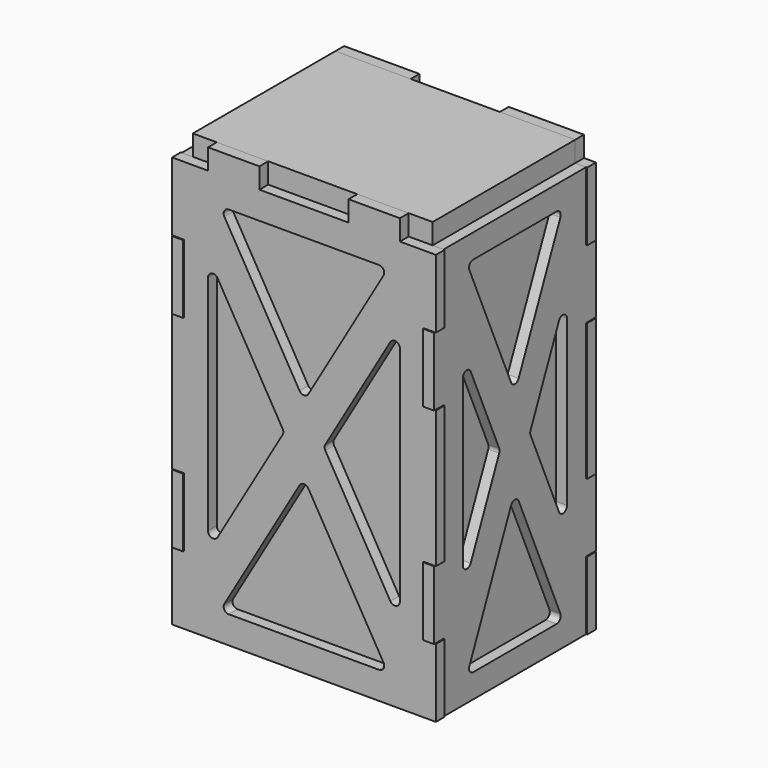
from build123d import *

# Parameters (mm, degrees)
F0_W     = 70
F0_H     = 52
F1_DEPTH = 126
F3_DEPTH = 3.2
F5_DEPTH = 3.2
F7_DEPTH = 3.2
F9_DEPTH = 3.2


with BuildPart() as f1:
    # F0 (on Top) → F1 (new body)
    with BuildSketch(Plane.XY):
        Rectangle(F0_W, F0_H)
    extrude(amount=F1_DEPTH)


with BuildPart() as f3:
    # F2 (on face) → F3 (new body)
    with BuildSketch(Plane.XZ.offset(26)):
        Polygon((28, 120), (28, 126), (13, 126), (13, 120), (-13, 120), (-13, 126), (-28, 126), (-28, 120), (-38.5, 120), (-38.5, 100), (-35, 100), (-35, 80), (-38.5, 80), (-38.5, 40), (-35, 40), (-35, 20), (-38.5, 20), (-38.5, 0), (38.5, 0), (38.5, 20), (35, 20), (35, 40), (38.5, 40), (38.5, 80), (35, 80), (35, 100), (38.5, 100), (38.5, 120), align=None)
        with BuildLine():
            Line((-28, 27.471555), (-28, 92.528445))
            ThreePointArc((-28, 92.528445), (-26.89147, 93.976461), (-25.204332, 93.284251))
            Line((-25.204332, 93.284251), (-6.229405, 60.755807))
            ThreePointArc((-6.229405, 60.755807), (-6.025074, 60), (-6.229405, 59.244193))
            Line((-6.229405, 59.244193), (-25.204332, 26.715749))
            ThreePointArc((-25.204332, 26.715749), (-26.89147, 26.023539), (-28, 27.471555))
        make_face(mode=Mode.SUBTRACT)
        with BuildLine():
            Line((21.93326, 8), (-21.93326, 8))
            ThreePointArc((-21.93326, 8), (-23.233973, 8.752909), (-23.228928, 10.255807))
            Line((-23.228928, 10.255807), (-1.295668, 47.85568))
            ThreePointArc((-1.295668, 47.85568), (0, 48.599873), (1.295668, 47.85568))
            Line((1.295668, 47.85568), (23.228928, 10.255807))
            ThreePointArc((23.228928, 10.255807), (23.233973, 8.752909), (21.93326, 8))
        make_face(mode=Mode.SUBTRACT)
        with BuildLine():
            ThreePointArc((25.204332, 93.284251), (26.89147, 93.976461), (28, 92.528445))
            Line((28, 92.528445), (28, 27.471555))
            ThreePointArc((28, 27.471555), (26.89147, 26.023539), (25.204332, 26.715749))
            Line((25.204332, 26.715749), (6.229405, 59.244193))
            ThreePointArc((6.229405, 59.244193), (6.025074, 60), (6.229405, 60.755807))
            Line((6.229405, 60.755807), (25.204332, 93.284251))
        make_face(mode=Mode.SUBTRACT)
        with BuildLine():
            ThreePointArc((-23.228928, 109.744193), (-23.233973, 111.247091), (-21.93326, 112))
            Line((-21.93326, 112), (21.93326, 112))
            ThreePointArc((21.93326, 112), (23.233973, 111.247091), (23.228928, 109.744193))
            Line((23.228928, 109.744193), (1.295668, 72.14432))
            ThreePointArc((1.295668, 72.14432), (0, 71.400127), (-1.295668, 72.14432))
            Line((-1.295668, 72.14432), (-23.228928, 109.744193))
        make_face(mode=Mode.SUBTRACT)
    extrude(amount=F3_DEPTH)


with BuildPart() as f5:
    # F4 (on face) → F5 (new body)
    with BuildSketch(Plane(origin=(0, 26, 0), x_dir=(-1, 0, 0), z_dir=(0, 1, 0))):
        Polygon((-38.5, 20), (-38.5, 0), (38.5, 0), (38.5, 20), (35, 20), (35, 40), (38.5, 40), (38.5, 80), (35, 80), (35, 100), (38.5, 100), (38.5, 120), (35, 120), (35, 126), (13, 126), (13, 120), (-13, 120), (-13, 126), (-35, 126), (-35, 120), (-38.5, 120), (-38.5, 100), (-35, 100), (-35, 80), (-38.5, 80), (-38.5, 40), (-35, 40), (-35, 20), align=None)
        with BuildLine():
            ThreePointArc((-28, 92.528445), (-26.89147, 93.976461), (-25.204332, 93.284251))
            Line((-25.204332, 93.284251), (-6.229405, 60.755807))
            ThreePointArc((-6.229405, 60.755807), (-6.025074, 60), (-6.229405, 59.244193))
            Line((-6.229405, 59.244193), (-25.204332, 26.715749))
            ThreePointArc((-25.204332, 26.715749), (-26.89147, 26.023539), (-28, 27.471555))
            Line((-28, 27.471555), (-28, 92.528445))
        make_face(mode=Mode.SUBTRACT)
        with BuildLine():
            Line((-23.228928, 10.255807), (-1.295668, 47.85568))
            ThreePointArc((-1.295668, 47.85568), (0, 48.599873), (1.295668, 47.85568))
            Line((1.295668, 47.85568), (23.228928, 10.255807))
            ThreePointArc((23.228928, 10.255807), (23.233973, 8.752909), (21.93326, 8))
            Line((21.93326, 8), (-21.93326, 8))
            ThreePointArc((-21.93326, 8), (-23.233973, 8.752909), (-23.228928, 10.255807))
        make_face(mode=Mode.SUBTRACT)
        with BuildLine():
            Line((25.204332, 26.715749), (6.229405, 59.244193))
            ThreePointArc((6.229405, 59.244193), (6.025074, 60), (6.229405, 60.755807))
            Line((6.229405, 60.755807), (25.204332, 93.284251))
            ThreePointArc((25.204332, 93.284251), (26.89147, 93.976461), (28, 92.528445))
            Line((28, 92.528445), (28, 27.471555))
            ThreePointArc((28, 27.471555), (26.89147, 26.023539), (25.204332, 26.715749))
        make_face(mode=Mode.SUBTRACT)
        with BuildLine():
            Line((-1.295668, 72.14432), (-23.228928, 109.744193))
            ThreePointArc((-23.228928, 109.744193), (-23.233973, 111.247091), (-21.93326, 112))
            Line((-21.93326, 112), (21.93326, 112))
            ThreePointArc((21.93326, 112), (23.233973, 111.247091), (23.228928, 109.744193))
            Line((23.228928, 109.744193), (1.295668, 72.14432))
            ThreePointArc((1.295668, 72.14432), (0, 71.400127), (-1.295668, 72.14432))
        make_face(mode=Mode.SUBTRACT)
    extrude(amount=F5_DEPTH)


with BuildPart() as f7:
    # F6 (on face) → F7 (new body)
    with BuildSketch(Plane.YZ.offset(35)):
        Polygon((26, 120), (-26, 120), (-26, 100), (-29.5, 100), (-29.5, 80), (-26, 80), (-26, 40), (-29.5, 40), (-29.5, 20), (-26, 20), (-26, 0), (26, 0), (26, 20), (29.5, 20), (29.5, 40), (26, 40), (26, 80), (29.5, 80), (29.5, 100), (26, 100), align=None)
        with BuildLine():
            Line((15.232628, 7), (-15.232627, 7))
            ThreePointArc((-15.232627, 7), (-16.486545, 7.67678), (-16.608961, 9.096411))
            Line((-16.608961, 9.096411), (-1.376333, 44.248629))
            ThreePointArc((-1.376333, 44.248629), (0, 45.152218), (1.376334, 44.248629))
            Line((1.376334, 44.248629), (16.608962, 9.096411))
            ThreePointArc((16.608962, 9.096411), (16.486546, 7.67678), (15.232628, 7))
        make_face(mode=Mode.SUBTRACT)
        with BuildLine():
            ThreePointArc((16.123667, 84.633244), (17.804549, 85.505591), (19, 84.036833))
            Line((19, 84.036833), (19, 35.963167))
            ThreePointArc((19, 35.963167), (17.804549, 34.494409), (16.123667, 35.366756))
            Line((16.123667, 35.366756), (5.707706, 59.403589))
            ThreePointArc((5.707706, 59.403589), (5.584039, 60), (5.707706, 60.596411))
            Line((5.707706, 60.596411), (16.123667, 84.633244))
        make_face(mode=Mode.SUBTRACT)
        with BuildLine():
            Line((-19, 35.963169), (-19, 84.036835))
            ThreePointArc((-19, 84.036835), (-17.804549, 85.505593), (-16.123667, 84.633246))
            Line((-16.123667, 84.633246), (-5.707706, 60.596413))
            ThreePointArc((-5.707706, 60.596413), (-5.584039, 60.000002), (-5.707706, 59.403591))
            Line((-5.707706, 59.403591), (-16.123667, 35.366758))
            ThreePointArc((-16.123667, 35.366758), (-17.804549, 34.494411), (-19, 35.963169))
        make_face(mode=Mode.SUBTRACT)
        with BuildLine():
            ThreePointArc((-16.608961, 110.903589), (-16.486545, 112.32322), (-15.232627, 113))
            Line((-15.232627, 113), (15.232627, 113))
            ThreePointArc((15.232627, 113), (16.486544, 112.32322), (16.60896, 110.903589))
            Line((16.60896, 110.903589), (1.376333, 75.751372))
            ThreePointArc((1.376333, 75.751372), (0, 74.847784), (-1.376334, 75.751372))
            Line((-1.376334, 75.751372), (-16.608961, 110.903589))
        make_face(mode=Mode.SUBTRACT)
    extrude(amount=F7_DEPTH)


with BuildPart() as f9:
    # F8 (on face) → F9 (new body)
    with BuildSketch(Plane(origin=(-35, 0, 0), x_dir=(0, -1, 0), z_dir=(-1, 0, 0))):
        Polygon((-29.5, 100), (-29.5, 80), (-26, 80), (-26, 40), (-29.5, 40), (-29.5, 20), (-26, 20), (-26, 0), (26, 0), (26, 20), (29.5, 20), (29.5, 40), (26, 40), (26, 80), (29.5, 80), (29.5, 100), (26, 100), (26, 120), (-26, 120), (-26, 100), align=None)
        with BuildLine():
            ThreePointArc((16.608961, 9.096411), (16.486545, 7.67678), (15.232627, 7))
            Line((15.232627, 7), (-15.232628, 7))
            ThreePointArc((-15.232628, 7), (-16.486546, 7.67678), (-16.608962, 9.096411))
            Line((-16.608962, 9.096411), (-1.376334, 44.248629))
            ThreePointArc((-1.376334, 44.248629), (0, 45.152218), (1.376333, 44.248629))
            Line((1.376333, 44.248629), (16.608961, 9.096411))
        make_face(mode=Mode.SUBTRACT)
        with BuildLine():
            ThreePointArc((-19, 84.036833), (-17.804549, 85.505591), (-16.123667, 84.633244))
            Line((-16.123667, 84.633244), (-5.707706, 60.596411))
            ThreePointArc((-5.707706, 60.596411), (-5.584039, 60), (-5.707706, 59.403589))
            Line((-5.707706, 59.403589), (-16.123667, 35.366756))
            ThreePointArc((-16.123667, 35.366756), (-17.804549, 34.494409), (-19, 35.963167))
            Line((-19, 35.963167), (-19, 84.036833))
        make_face(mode=Mode.SUBTRACT)
        with BuildLine():
            Line((16.123667, 35.366758), (5.707706, 59.403591))
            ThreePointArc((5.707706, 59.403591), (5.584039, 60.000002), (5.707706, 60.596413))
            Line((5.707706, 60.596413), (16.123667, 84.633246))
            ThreePointArc((16.123667, 84.633246), (17.804549, 85.505593), (19, 84.036835))
            Line((19, 84.036835), (19, 35.963169))
            ThreePointArc((19, 35.963169), (17.804549, 34.494411), (16.123667, 35.366758))
        make_face(mode=Mode.SUBTRACT)
        with BuildLine():
            Line((-1.376333, 75.751372), (-16.60896, 110.903589))
            ThreePointArc((-16.60896, 110.903589), (-16.486544, 112.32322), (-15.232627, 113))
            Line((-15.232627, 113), (15.232627, 113))
            ThreePointArc((15.232627, 113), (16.486545, 112.32322), (16.608961, 110.903589))
            Line((16.608961, 110.903589), (1.376334, 75.751372))
            ThreePointArc((1.376334, 75.751372), (0, 74.847784), (-1.376333, 75.751372))
        make_face(mode=Mode.SUBTRACT)
    extrude(amount=F9_DEPTH)


solid = Compound([f1.part, f3.part, f5.part, f7.part, f9.part])
